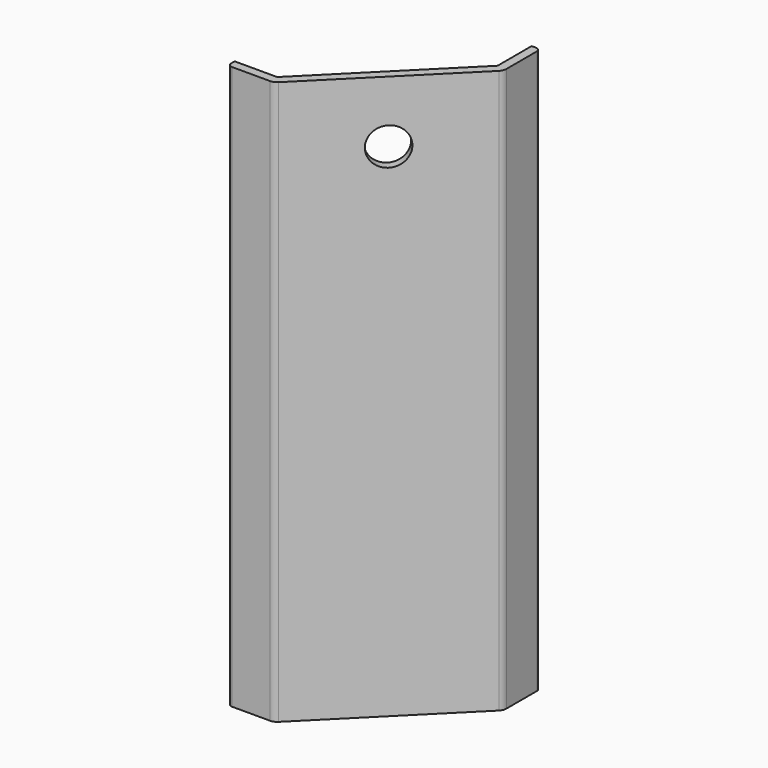
from build123d import *

# Parameters (mm, degrees)
F1_DEPTH = 28
F3_DEPTH = 72
F5_DEPTH = 28
F6_R     = 2
F7_R     = 1
F8_R     = 4.25
F9_DEPTH = 25


with BuildPart() as f1:
    # F0 (on Top) → F1 (new body)
    with BuildSketch(Plane.XY):
        Polygon((-19.75, -17.750001), (-19.75, -19.75), (-9.25, -19.75), (19.75, 9.25), (19.75, 19.75), (17.750001, 19.75), (17.750001, 10.078427), (-10.078427, -17.750001), align=None)
    extrude(amount=F1_DEPTH)

    # F2 (on face) → F3 (join)
    with BuildSketch(Plane.XY.offset(28)):
        Polygon((-19.75, -19.75), (-9.25, -19.75), (19.75, 9.25), (19.75, 19.75), (11.25, 19.75), (11.25, 24.25), (9.25, 26.25), (9.25, 23.421573), (9.25, 19.75), (9.25, 17.750001), (17.750001, 17.750001), (17.750001, 10.078427), (16.585787, 8.914213), (-8.914213, -16.585787), (-10.078427, -17.750001), (-17.750001, -17.750001), (-17.750001, -9.25), (-19.75, -9.25), (-23.421573, -9.25), (-26.25, -9.25), (-24.25, -11.25), (-19.75, -11.25), align=None)
    extrude(amount=F3_DEPTH)

    # F4 (on face) → F5 (join)
    with BuildSketch(Plane.XY.offset(100)):
        Polygon((19.75, 9.25), (19.75, 19.75), (17.750001, 19.75), (17.750001, 10.078427), (-10.078427, -17.750001), (-19.75, -17.750001), (-19.75, -19.75), (-9.25, -19.75), align=None)
    extrude(amount=F5_DEPTH)

    # F6
    f6_edges = [f1.edges().sort_by_distance(p)[0] for p in [
        (19.75, 9.25, 64),
        (-9.25, -19.75, 64),
    ]]
    fillet(f6_edges, radius=F6_R)

    # F7
    f7_edges = [f1.edges().sort_by_distance(p)[0] for p in [
        (-19.75, -19.75, 64),
        (19.75, 19.75, 64),
    ]]
    fillet(f7_edges, radius=F7_R)

    # F8 (on face) → F9 (cut)
    with BuildSketch(Plane(origin=(5.25, -5.25, 0), x_dir=(0.707107, 0.707107, 0), z_dir=(0.707107, -0.707107, 0))):
        with Locations((0, 114)):
            Circle(F8_R)
    extrude(amount=-F9_DEPTH, mode=Mode.SUBTRACT)


solid = f1.part
